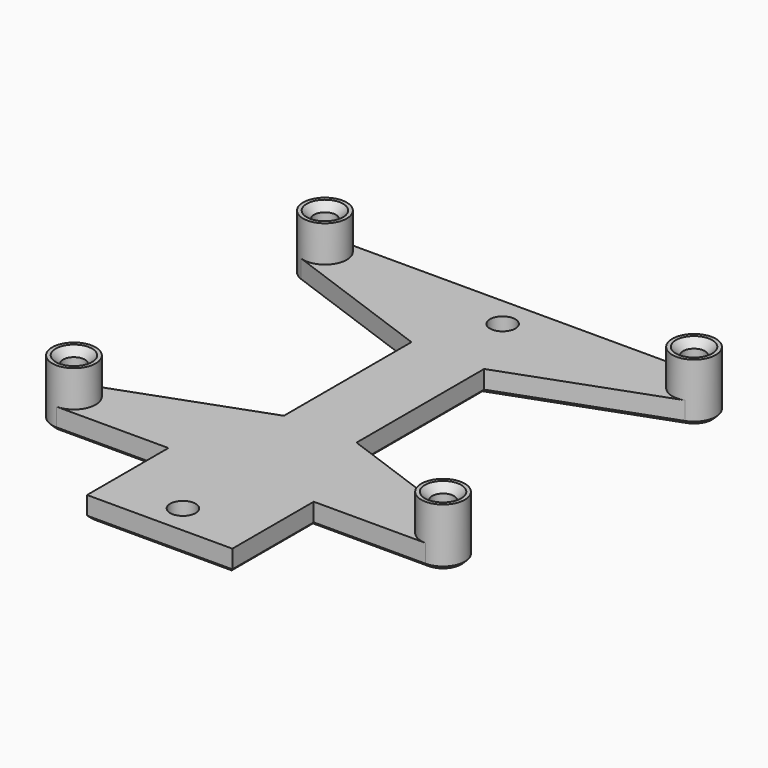
from build123d import *

# Parameters (mm, degrees)
CYLINDER001_R     = 3
CYLINDER001_DEPTH = 8
PAD007_DEPTH      = 3
CYLINDER002_R     = 3
CYLINDER002_DEPTH = 8
SKETCH029_R       = 1.5
POCKET021_DEPTH   = 10
CHAMFER018_SIZE   = 1
SKETCH030_R       = 1.75
POCKET022_DEPTH   = 5
CHAMFER019_SIZE   = 0.5


with BuildPart() as keypadbracketscrewcylinder:
    # Cylinder001 → Cylinder001 (new body)
    with BuildSketch(Plane(origin=(25.4, 13.5, 18), x_dir=(1, 0, 0), z_dir=(0, 0, 1))):
        Circle(CYLINDER001_R)
    extrude(amount=CYLINDER001_DEPTH)


with BuildPart() as keypadbracketpad007:
    # Sketch028 → Pad007 (new body)
    with BuildSketch(Plane.XY.offset(18)):
        with BuildLine():
            Line((0, -3.5), (10, -3.5))
            Line((10, -3.5), (10, 10.5))
            Line((10, 10.5), (25.4, 10.5))
            ThreePointArc((25.4, 10.5), (28.354423, 12.979055), (26.42606, 16.319078))
            Line((26.42606, 16.319078), (5, 24.117526))
            Line((5, 24.117526), (5, 46.062474))
            Line((5, 46.062474), (26.42606, 53.860922))
            ThreePointArc((26.42606, 53.860922), (28.354423, 57.200945), (25.4, 59.68))
            Line((25.4, 59.68), (0, 59.68))
            Line((0, 59.68), (0, -3.5))
        make_face()
    extrude(amount=PAD007_DEPTH)


with BuildPart() as keypadbracketscrewholeschamfer018:
    # Cylinder002 → Cylinder002 (new body)
    with BuildSketch(Plane(origin=(25.4, 56.68, 18), x_dir=(1, 0, 0), z_dir=(0, 0, 1))):
        Circle(CYLINDER002_R)
    extrude(amount=CYLINDER002_DEPTH)

    # Fusion003: union KeypadBracketScrewCylinder, KeypadBracketPad007
    add(keypadbracketscrewcylinder.part)
    add(keypadbracketpad007.part)

    # Sketch029 → Pocket021 (cut)
    with BuildSketch(Plane.XY.offset(26)):
        with Locations((25.4, 13.5)):
            Circle(SKETCH029_R)
        with Locations((25.4, 56.68)):
            Circle(SKETCH029_R)
    extrude(amount=-POCKET021_DEPTH, mode=Mode.SUBTRACT)

    # Chamfer018
    chamfer018_edges = [keypadbracketscrewholeschamfer018.edges().sort_by_distance(p)[0] for p in [
        (23.9, 56.68, 26),
        (23.9, 13.5, 26),
    ]]
    chamfer(chamfer018_edges, length=CHAMFER018_SIZE)


with BuildPart() as keypadbracketprintingchamfer019_final:
    # Part__Mirroring004: instance of KeypadBracketScrewHolesChamfer018
    add(keypadbracketscrewholeschamfer018.part.mirror(Plane(origin=(0, 0, 0), x_dir=(0, -1, 0), z_dir=(1, 0, 0))))

    # Fusion004: union KeypadBracketScrewHolesChamfer018
    add(keypadbracketscrewholeschamfer018.part)

    # Sketch030 → Pocket022 (cut)
    with BuildSketch(Plane.XY.offset(21)):
        with Locations((0, 0.5)):
            Circle(SKETCH030_R)
        with Locations((0, 55.5)):
            Circle(SKETCH030_R)
    extrude(amount=-POCKET022_DEPTH, mode=Mode.SUBTRACT)

    # Chamfer019
    chamfer019_edges = [keypadbracketprintingchamfer019_final.edges().sort_by_distance(p)[0] for p in [
        (-25.4, 15, 18),
        (-25.4, 12, 18),
        (0, 57.25, 18),
        (0, 53.75, 18),
        (0, 2.25, 18),
        (0, -1.25, 18),
        (-27.52132, 58.80132, 18),
        (-27.857456, 54.959271, 18),
        (0, 59.68, 18),
        (-15.71303, 49.961698, 18),
        (27.52132, 58.80132, 18),
        (-5, 35.09, 18),
        (27.857456, 54.959271, 18),
        (-15.71303, 20.218302, 18),
        (15.71303, 49.961698, 18),
        (-27.857456, 15.220729, 18),
        (5, 35.09, 18),
        (-27.52132, 11.37868, 18),
        (15.71303, 20.218302, 18),
        (-17.7, 10.5, 18),
        (27.857456, 15.220729, 18),
        (-10, 3.5, 18),
        (27.52132, 11.37868, 18),
        (0, -3.5, 18),
        (17.7, 10.5, 18),
        (10, 3.5, 18),
        (25.4, 58.18, 18),
        (25.4, 55.18, 18),
        (25.4, 15, 18),
        (25.4, 12, 18),
        (-25.4, 58.18, 18),
        (-25.4, 55.18, 18),
    ]]
    chamfer(chamfer019_edges, length=CHAMFER019_SIZE)


solid = keypadbracketprintingchamfer019_final.part
